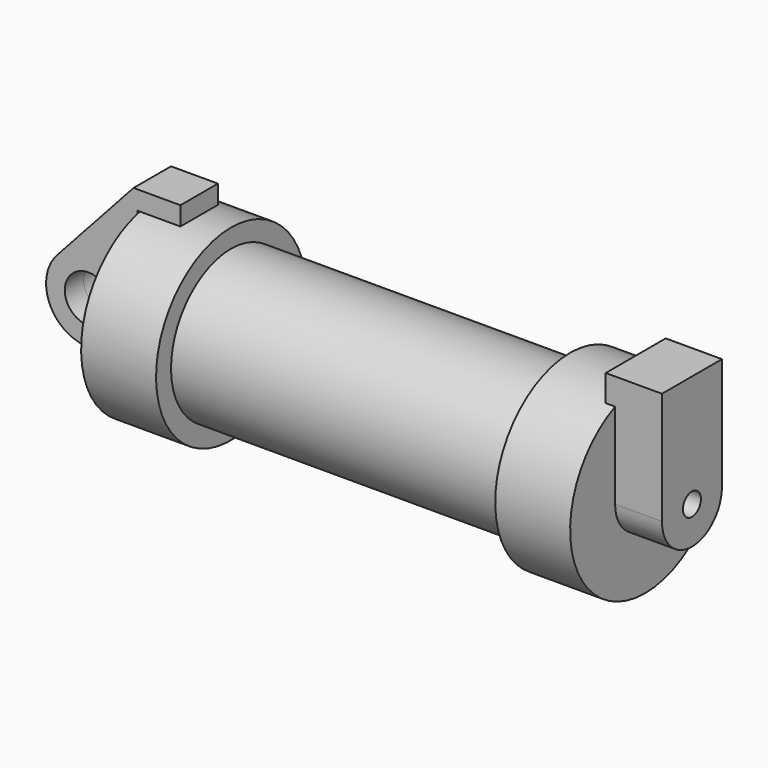
from build123d import *

# Parameters (mm, degrees)
F0_W          = 5.842
F0_H          = 12.7
F0_R          = 3.175
F2_DEPTH      = 3.175
F2_DEPTH_BACK = 3.175
F3_R          = 1.524
F4_DEPTH      = 6.35
F4_DEPTH_BACK = 1.27
F5_DEPTH      = 56.134


with BuildPart() as f1:
    # F0 (on Front) → F1 (revolve)
    with BuildSketch(Plane.XZ):
        Polygon((5.842, 12.7), (5.842, 0), (66.294, 0), (66.294, 12.7), (56.134, 12.7), (56.134, 10.16), (10.16, 10.16), (10.16, 12.7), align=None)
        with Locations((2.921, 6.35)):
            Rectangle(F0_W, F0_H)
    revolve(axis=Axis((33.147, 0, 0), (-1, 0, 0)))

    # F3 (on face) → F4 (join, two sides)
    with BuildSketch(Plane.YZ.offset(66.294)) as f4_sk:
        with BuildLine():
            ThreePointArc((-5.08, 11.6397422652), (0, 12.7), (5.08, 11.6397422652))
            Line((5.08, 11.6397422652), (5.08, 15.24))
            Line((5.08, 15.24), (-5.08, 15.24))
            Line((-5.08, 15.24), (-5.08, 11.6397422652))
        make_face()
        with BuildLine():
            ThreePointArc((-5.08, 0), (0, 5.08), (5.08, 0))
            Line((5.08, 0), (5.08, 11.6397422652))
            ThreePointArc((5.08, 11.6397422652), (0, 12.7), (-5.08, 11.6397422652))
            Line((-5.08, 11.6397422652), (-5.08, 0))
        make_face()
        with BuildLine():
            ThreePointArc((-5.08, 0), (0, -5.08), (5.08, 0))
            ThreePointArc((5.08, 0), (0, 5.08), (-5.08, 0))
        make_face()
        Circle(F3_R, mode=Mode.SUBTRACT)
    extrude(amount=F4_DEPTH)
    extrude(f4_sk.sketch, amount=-F4_DEPTH_BACK)

    # F5 (add, through all): a face of the model
    f5_faces = [f1.faces().sort_by_distance(p)[0] for p in [
        (66.294, 0, 0),
    ]]
    extrude(f5_faces, amount=-F5_DEPTH)


with BuildPart() as f2:
    # F0 (on Front) → F2 (new body, two sides)
    with BuildSketch(Plane.XZ) as f2_sk:
        with BuildLine():
            Line((-0.9398, 0), (0, 0))
            Line((0, 0), (0, 12.7))
            Line((0, 12.7), (5.842, 12.7))
            Line((5.842, 12.7), (5.842, 15.24))
            Line((5.842, 15.24), (-0.508, 15.24))
            Line((-0.508, 15.24), (-10.8806298187, 3.8475430269))
            ThreePointArc((-10.8806298187, 3.8475430269), (-4.5919612295, 5.3297205562), (-0.9398, 0))
        make_face()
        with BuildLine():
            Line((5.842, 0), (0, 0))
            Line((0, 0), (-0.9398, 0))
            ThreePointArc((-0.9398, 0), (-3.1957909266, -4.5493385486), (-8.1826630726, -5.5069827884))
            Line((-8.1826630726, -5.5069827884), (5.842, -9.398))
            Line((5.842, -9.398), (5.842, 0))
        make_face()
        with BuildLine():
            ThreePointArc((-8.1826630726, -5.5069827884), (-3.1957909266, -4.5493385486), (-0.9398, 0))
            ThreePointArc((-0.9398, 0), (-4.5919612295, 5.3297205562), (-10.8806298187, 3.8475430269))
            ThreePointArc((-10.8806298187, 3.8475430269), (-12.1459778134, -1.5837270034), (-8.1826630726, -5.5069827884))
        make_face()
        with Locations((-6.6548, 0)):
            Circle(F0_R, mode=Mode.SUBTRACT)
    extrude(amount=F2_DEPTH)
    extrude(f2_sk.sketch, amount=-F2_DEPTH_BACK)


solid = Compound([f1.part, f2.part])
